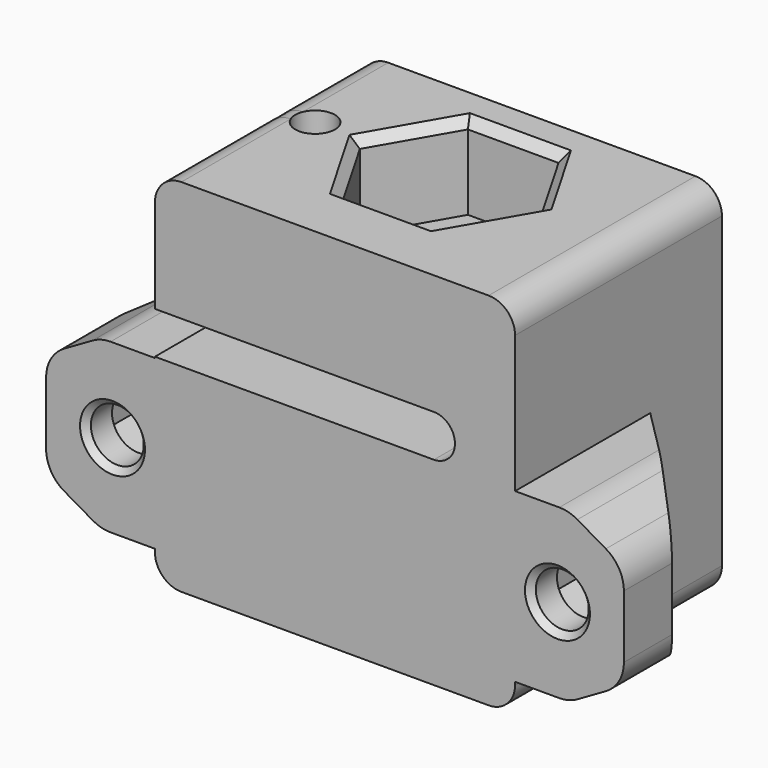
from build123d import *

# Parameters (mm, degrees)
SKETCH_W        = 29.95
SKETCH_H        = 21.5
PAD_DEPTH       = 15
POCKET_DEPTH    = 21.501
SKETCH002_R     = 5
POCKET001_DEPTH = 30.001
POCKET002_DEPTH = 7
POCKET003_DEPTH = 7
PAD001_DEPTH    = 5
CHAMFER_SIZE    = 9.049
POCKET004_DEPTH = 18.8
SKETCH007_R     = 2.2
POCKET005_DEPTH = 2.701
SKETCH008_R     = 1.65
POCKET006_DEPTH = 10
POCKET007_DEPTH = 3
FILLET_R        = 2.2
FILLET001_R     = 3
CHAMFER001_SIZE = 0.75
CHAMFER002_SIZE = 0.5
CHAMFER003_SIZE = 0.5


with BuildPart() as part:
    # Sketch → Pad (new body, symmetric)
    with BuildSketch(Plane.XY):
        with Locations((0, -1.25)):
            Rectangle(SKETCH_W, SKETCH_H)
    extrude(amount=PAD_DEPTH, both=True)

    # Sketch001 (on Face1 of Pad) → Pocket (cut, through all)
    with BuildSketch(Plane(origin=(0, 9.5, 0), x_dir=(-1, 0, 0), z_dir=(0, 1, 0))):
        with BuildLine():
            Line((14.975, 1.5), (14.975, 5))
            Line((14.975, 5), (-8.224983, 5))
            ThreePointArc((-8.224983, 5), (-9.975, 3.25), (-8.224983, 1.5))
            Line((14.975, 1.5), (-8.224983, 1.5))
        make_face()
    extrude(amount=-POCKET_DEPTH, mode=Mode.SUBTRACT)

    # Sketch002 (on Face4 of Pocket) → Pocket001 (cut, through all)
    with BuildSketch(Plane.XY.offset(15)):
        Circle(SKETCH002_R)
    extrude(amount=-POCKET001_DEPTH, mode=Mode.SUBTRACT)

    # Sketch003 (on Face4 of Pocket001) → Pocket002 (cut)
    with BuildSketch(Plane.XY.offset(15)):
        Polygon((7.534421, 0), (3.767211, 6.525), (-3.767211, 6.525), (-7.534421, 0), (-3.767211, -6.525), (3.767211, -6.525), align=None)
    extrude(amount=-POCKET002_DEPTH, mode=Mode.SUBTRACT)

    # Sketch004 (on Face2 of Pocket002) → Pocket003 (cut)
    with BuildSketch(Plane(origin=(0, 0, -15), x_dir=(1, 0, 0), z_dir=(0, 0, -1))):
        Polygon((7.534421, 0), (3.767211, 6.525), (-3.767211, 6.525), (-7.534421, 0), (-3.767211, -6.525), (3.767211, -6.525), align=None)
    extrude(amount=-POCKET003_DEPTH, mode=Mode.SUBTRACT)

    # Sketch005 (on Face10 of Pocket003) → Pad001 (new body)
    with BuildSketch(Plane.XZ.offset(12)):
        Polygon((-14.975, 1.4), (-19.459732, 1.4), (-24.025, -1.235759), (-24.025, -9.92488), (-19.459732, -12.560639), (-14.975, -12.560639), align=None)
        Polygon((14.975, 1.4), (14.975, -12.560639), (19.459732, -12.560639), (24.025, -9.92488), (24.025, -1.235759), (19.459732, 1.4), align=None)
    extrude(amount=-PAD001_DEPTH)

    # Chamfer
    chamfer_edges = [part.edges().sort_by_distance(p)[0] for p in [
        (-14.975, -7, -5.580319),
        (14.975, -7, -5.580319),
    ]]
    chamfer(chamfer_edges, length=CHAMFER_SIZE)

    # Sketch006 (on Face7 of Chamfer) → Pocket004 (cut)
    with BuildSketch(Plane(origin=(0, 9.5, 0), x_dir=(-1, 0, 0), z_dir=(0, 1, 0))):
        Polygon((22.025, -7.61548), (22.025, -3.54516), (18.5, -1.510001), (14.975, -3.54516), (14.975, -7.61548), (18.5, -9.650639), align=None)
        Polygon((-18.5, -9.650639), (-14.975, -7.61548), (-14.975, -3.54516), (-18.5, -1.510001), (-22.025, -3.54516), (-22.025, -7.61548), align=None)
    extrude(amount=-POCKET004_DEPTH, mode=Mode.SUBTRACT)

    # Sketch007 (on Face36 of Pocket004) → Pocket005 (cut, through all)
    with BuildSketch(Plane(origin=(0, -9.3, 0), x_dir=(-1, 0, 0), z_dir=(0, 1, 0))):
        with Locations((-18.5, -5.58032)):
            Circle(SKETCH007_R)
        with Locations((18.5, -5.58032)):
            Circle(SKETCH007_R)
    extrude(amount=-POCKET005_DEPTH, mode=Mode.SUBTRACT)

    # Sketch008 (on Face23 of Pocket005) → Pocket006 (cut)
    with BuildSketch(Plane.XY.offset(15)):
        with Locations((-11.254711, 0)):
            Circle(SKETCH008_R)
    extrude(amount=-POCKET006_DEPTH, mode=Mode.SUBTRACT)

    # Sketch009 (on Face26 of Pocket006) → Pocket007 (cut)
    with BuildSketch(Plane(origin=(0, 0, 5), x_dir=(1, 0, 0), z_dir=(0, 0, -1))):
        Polygon((-9.652564, -2.775), (-8.050417, 0), (-9.652564, 2.775), (-12.856858, 2.775), (-14.459005, 0), (-12.856858, -2.775), align=None)
    extrude(amount=-POCKET007_DEPTH, mode=Mode.SUBTRACT)

    # Fillet
    fillet_edges = [part.edges().sort_by_distance(p)[0] for p in [
        (-14.975, -1.25, -15),
        (14.975, -1.25, -15),
        (-14.975, -1.25, 15),
        (14.975, -1.25, 15),
    ]]
    fillet(fillet_edges, radius=FILLET_R)

    # Fillet001
    fillet001_edges = [part.edges().sort_by_distance(p)[0] for p in [
        (24.025, -9.5, -9.92488),
        (19.459732, -7.217866, -12.560639),
        (24.025, -9.5, -1.235759),
        (-19.459732, -7.217866, -12.560639),
        (-24.025, -9.5, -9.92488),
        (-24.025, -9.5, -1.235759),
        (-19.459732, -7.217866, 1.4),
        (19.459732, -7.217866, 1.4),
    ]]
    fillet(fillet001_edges, radius=FILLET001_R)

    # Chamfer001
    chamfer001_edges = [part.edges().sort_by_distance(p)[0] for p in [
        (-5.650816, -3.2625, -15),
        (0, -6.525, -15),
        (5.650816, -3.2625, -15),
        (5.650816, 3.2625, -15),
        (0, 6.525, -15),
        (-5.650816, 3.2625, -15),
        (-5.650816, 3.2625, 15),
        (0, 6.525, 15),
        (5.650816, 3.2625, 15),
        (5.650816, -3.2625, 15),
        (0, -6.525, 15),
        (-5.650816, -3.2625, 15),
    ]]
    chamfer(chamfer001_edges, length=CHAMFER001_SIZE)

    # Chamfer002
    chamfer002_edges = [part.edges().sort_by_distance(p)[0] for p in [
        (-16.7375, 0.2865, -8.63306),
        (-16.7375, 0.2865, -2.52758),
        (-20.2625, -3.2385, -2.52758),
        (-20.2625, -3.2385, -8.63306),
        (-22.025, -5.001, -5.58032),
        (16.7375, 0.2865, -2.52758),
        (16.7375, 0.2865, -8.63306),
        (20.2625, -3.2385, -8.63306),
        (22.025, -5.001, -5.58032),
        (20.2625, -3.2385, -2.52758),
    ]]
    chamfer(chamfer002_edges, length=CHAMFER002_SIZE)

    # Chamfer003
    chamfer003_edges = [part.edges().sort_by_distance(p)[0] for p in [
        (-16.3, -12, -5.58032),
        (20.7, -12, -5.58032),
    ]]
    chamfer(chamfer003_edges, length=CHAMFER003_SIZE)


solid = part.part
